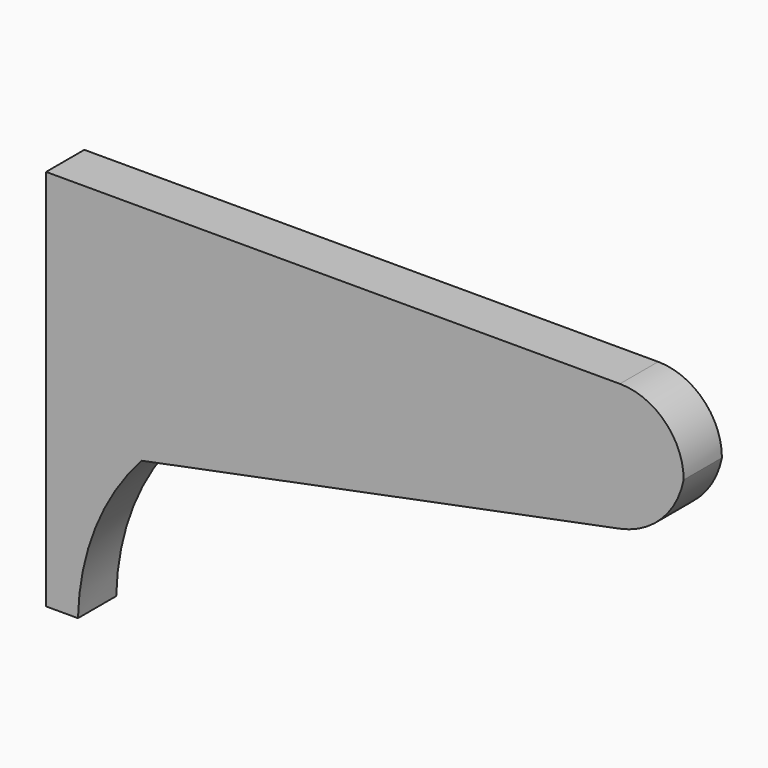
from build123d import *

# Parameters (mm, degrees)
F1_DEPTH = 19.05


with BuildPart() as f1:
    # F0 (on Front) → F1 (new body)
    with BuildSketch(Plane.XZ):
        with BuildLine():
            Line((101.6, 76.2), (-127, 76.2))
            Line((-127, 76.2), (-127, -76.2))
            Line((-127, -76.2), (-114.3, -76.2))
            ThreePointArc((-114.3, -76.2), (-107.345229, -42.151908), (-88.9, -12.7))
            Line((-88.9, -12.7), (101.6, 25.4))
            ThreePointArc((101.6, 25.4), (118.145251, 34.254749), (127, 50.8))
            ThreePointArc((127, 50.8), (119.560512, 68.760512), (101.6, 76.2))
        make_face()
    extrude(amount=F1_DEPTH)


solid = f1.part
